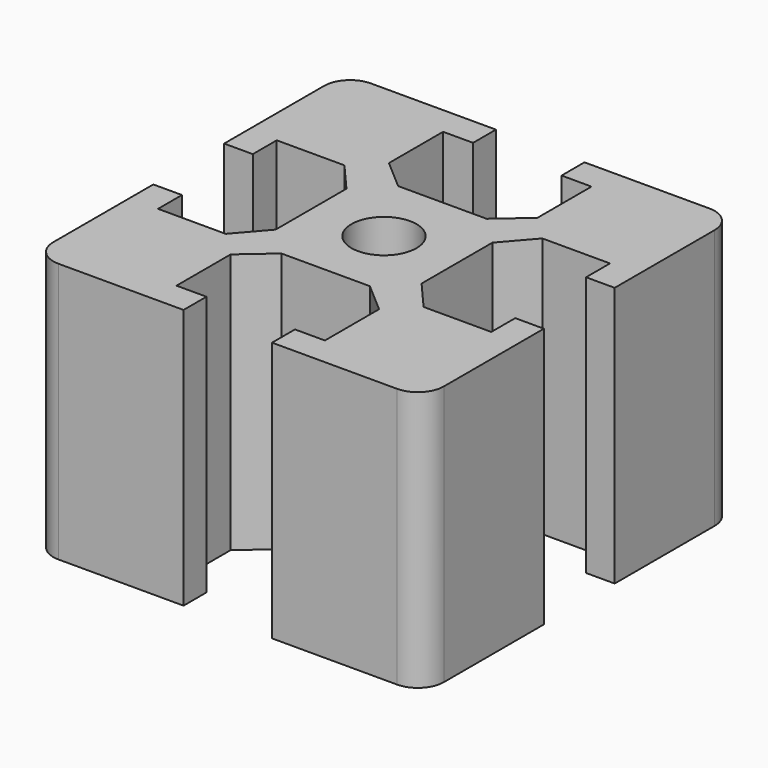
from build123d import *

# Parameters (mm, degrees)
SKETCH_R  = 1.25
PAD_DEPTH = 10
FILLET_R  = 1


with BuildPart() as part:
    # Sketch → Pad (new body)
    with BuildSketch(Plane.XY):
        Polygon((-7.5, 7.5), (-1.7, 7.5), (-1.7, 6.4), (-2.85, 6.4), (-2.85, 3.8), (-1.7, 2.802683), (1.7, 2.802683), (2.85, 3.8), (2.85, 6.4), (1.7, 6.4), (1.7, 7.5), (7.5, 7.5), (7.5, 1.7), (6.4, 1.7), (6.4, 2.85), (3.8, 2.85), (2.802683, 1.7), (2.802683, -1.7), (3.8, -2.85), (6.4, -2.85), (6.4, -1.7), (7.5, -1.7), (7.5, -7.5), (1.7, -7.5), (1.7, -6.4), (2.85, -6.4), (2.85, -3.8), (1.7, -2.802683), (-1.7, -2.802683), (-2.85, -3.8), (-2.85, -6.4), (-1.7, -6.4), (-1.7, -7.5), (-7.5, -7.5), (-7.5, -1.7), (-6.4, -1.7), (-6.4, -2.85), (-3.8, -2.85), (-2.802683, -1.7), (-2.802683, 1.7), (-3.8, 2.85), (-6.4, 2.85), (-6.4, 1.7), (-7.5, 1.7), align=None)
        Circle(SKETCH_R, mode=Mode.SUBTRACT)
    extrude(amount=PAD_DEPTH)

    # Fillet
    fillet_edges = [part.edges().sort_by_distance(p)[0] for p in [
        (-7.5, -7.5, 5),
        (7.5, -7.5, 5),
        (7.5, 7.5, 5),
        (-7.5, 7.5, 5),
    ]]
    fillet(fillet_edges, radius=FILLET_R)


solid = part.part
